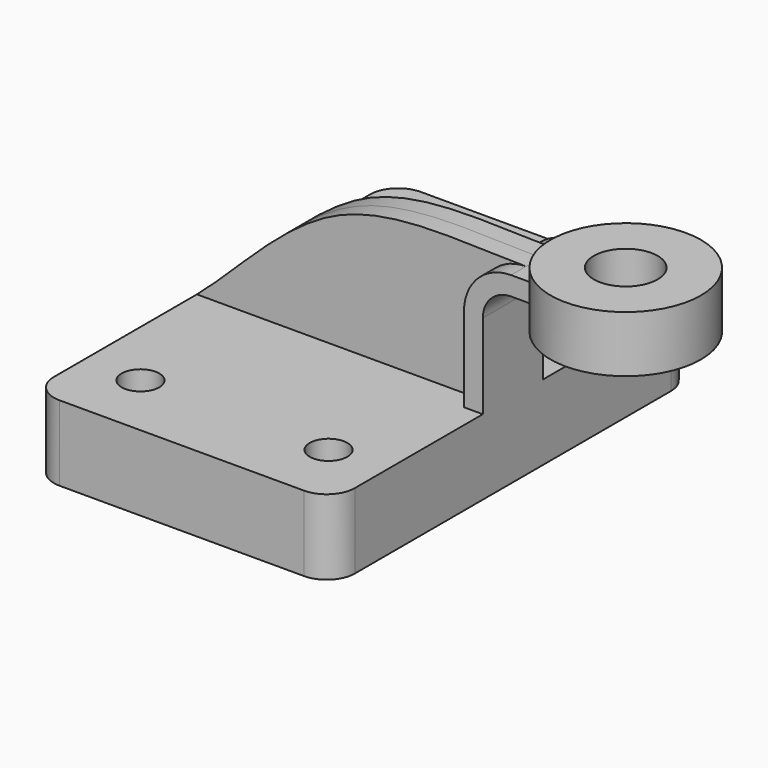
from build123d import *

# Parameters (mm, degrees)
F1_DEPTH = 76.2
F2_DEPTH = 12.7
F3_DEPTH = 6.35
F5_R     = 9.525
F6_R     = 10.7761659596
F7_DEPTH = 76.201
F8_R     = 6.35
F9_DEPTH = 12.7


with BuildPart() as f1:
    # F0 (on Front) → F1 (new body, symmetric)
    with BuildSketch(Plane.XZ):
        Polygon((-50.8, 12.7), (-50.8, -12.7), (50.8, -12.7), (50.8, 12.7), (44.45, 12.7), align=None)
    extrude(amount=F1_DEPTH, both=True)

    # F0 (on Front) → F2 (join, symmetric)
    with BuildSketch(Plane.XZ):
        with BuildLine():
            Line((44.45, 12.7), (50.8, 12.7))
            Line((50.8, 12.7), (50.8, 41.275))
            ThreePointArc((50.8, 41.275), (53.5898079092, 48.0101920908), (60.325, 50.8))
            Line((60.325, 50.8), (88.9, 50.8))
            Line((88.9, 50.8), (88.9, 57.15))
            Line((88.9, 57.15), (60.325, 57.15))
            ThreePointArc((60.325, 57.15), (49.0996798487, 52.5003201513), (44.45, 41.275))
            Line((44.45, 41.275), (44.45, 12.7))
        make_face()
    extrude(amount=F2_DEPTH, both=True)

    # F0 (on Front) → F3 (join, symmetric)
    with BuildSketch(Plane.XZ):
        with BuildLine():
            add(Edge.make_bspline(
                [(-50.8, 12.7), (-36.4359264535, 24.9142696717), (-6.0956798741, 63.0964294524), (39.4712934893, 57.15), (60.325, 57.15)],
                knots=[0, 0, 0, 0, 0.4989893673, 1, 1, 1, 1], degree=3))
            Line((-50.8, 12.7), (44.45, 12.7))
            Line((44.45, 12.7), (44.45, 41.275))
            ThreePointArc((44.45, 41.275), (49.0996798487, 52.5003201513), (60.325, 57.15))
        make_face()
    extrude(amount=F3_DEPTH, both=True)

    # F0 (on Front) → F4 (revolve)
    with BuildSketch(Plane.XZ):
        Polygon((88.9, 63.5), (88.9, 57.15), (88.9, 50.8), (88.9, 44.45), (114.3, 44.45), (114.3, 63.5), align=None)
    revolve(axis=Axis((88.9, 0, 53.975), (0, 0, 1)))

    # F5
    f5_edges = [f1.edges().sort_by_distance(p)[0] for p in [
        (50.8, -76.2, 0),
        (50.8, 76.2, 0),
        (-50.8, 76.2, 0),
        (-50.8, -76.2, 0),
    ]]
    fillet(f5_edges, radius=F5_R)

    # F6 (on face) → F7 (cut, through all)
    with BuildSketch(Plane.XY.offset(63.5)):
        with Locations((88.9, 0)):
            Circle(F6_R)
    extrude(amount=-F7_DEPTH, mode=Mode.SUBTRACT)

    # F8 (on Top) → F9 (cut, symmetric)
    with BuildSketch(Plane.XY):
        with Locations((-31.75, -53.975)):
            Circle(F8_R)
        with Locations((31.75, -53.975)):
            Circle(F8_R)
        with Locations((31.75, 53.975)):
            Circle(F8_R)
        with Locations((-31.75, 53.975)):
            Circle(F8_R)
    extrude(amount=F9_DEPTH, both=True, mode=Mode.SUBTRACT)


solid = f1.part
